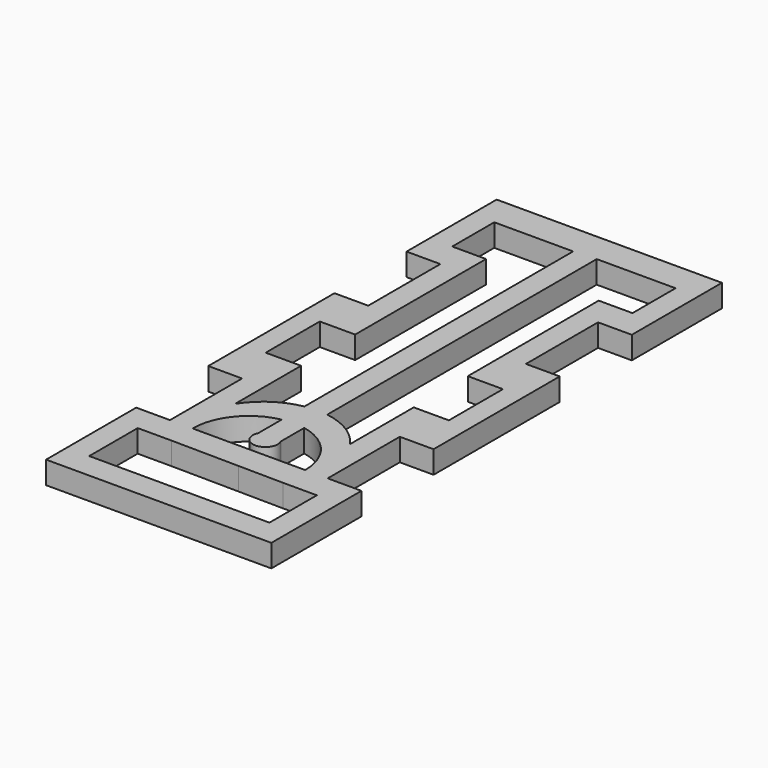
from build123d import *

# Parameters (mm, degrees)
F1_DEPTH = 5.08


with BuildPart() as f1:
    # F0 (on Top) → F1 (new body)
    with BuildSketch(Plane.XY):
        Polygon((-4.270472, 55.757098), (-55.070472, 55.757098), (-55.070472, 30.357098), (-47.450472, 30.357098), (-47.450472, 10.037098), (-55.070472, 10.037098), (-55.070472, -25.522902), (-47.450472, -25.522902), (-47.450472, -45.842902), (-55.070472, -45.842902), (-55.070472, -71.242902), (-4.270472, -71.242902), (-4.270472, -45.842902), (-11.890472, -45.842902), (-11.890472, -25.522902), (-4.270472, -25.522902), (-4.270472, 10.037098), (-11.890472, 10.037098), (-11.890472, 30.357098), (-4.270472, 30.357098), align=None)
        Polygon((-49.990472, -51.771179), (-42.370472, -51.771179), (-32.210472, -51.892635), (-27.130472, -51.953363), (-16.970472, -52.07482), (-9.350472, -52.07482), (-9.350472, -65.435126), (-27.130472, -65.435126), (-32.210472, -65.435126), (-49.990472, -65.435126), align=None, mode=Mode.SUBTRACT)
        with BuildLine():
            Line((-16.970472, -45.842902), (-42.370472, -45.842902))
            ThreePointArc((-42.370472, -45.842902), (-39.50785, -37.810717), (-32.210472, -33.399494))
            Line((-32.210472, -33.399494), (-32.210472, -40.014148))
            ThreePointArc((-32.210472, -40.014148), (-29.670472, -44.004216), (-27.130472, -40.014148))
            Line((-27.130472, -40.014148), (-27.130472, -33.399494))
            ThreePointArc((-27.130472, -33.399494), (-19.833094, -37.810717), (-16.970472, -45.842902))
        make_face(mode=Mode.SUBTRACT)
        with BuildLine():
            Line((-49.990472, 48.734743), (-42.370472, 48.734743))
            Line((-42.370472, 48.734743), (-32.210472, 48.734743))
            Line((-32.210472, 48.734743), (-32.210472, -26.999166))
            ThreePointArc((-32.210472, -26.999166), (-37.999229, -29.353544), (-42.370472, -33.81953))
            Line((-42.370472, -33.81953), (-42.370472, -15.24))
            Line((-42.370472, -15.24), (-50.352603, -15.24))
            Line((-50.352603, -15.24), (-50.352603, 0))
            Line((-50.352603, 0), (-42.370472, 0))
            Line((-42.370472, 0), (-42.370472, 36.892656))
            Line((-42.370472, 36.892656), (-49.990472, 36.892656))
            Line((-49.990472, 36.892656), (-49.990472, 48.734743))
        make_face(mode=Mode.SUBTRACT)
        with BuildLine():
            Line((-27.130472, -26.922115), (-27.130472, 49.038388))
            Line((-27.130472, 49.038388), (-16.970472, 49.038388))
            Line((-16.970472, 49.038388), (-9.350472, 49.038388))
            Line((-9.350472, 49.038388), (-9.350472, 36.892656))
            Line((-9.350472, 36.892656), (-16.970472, 36.892656))
            Line((-16.970472, 36.892656), (-16.970472, 0))
            Line((-16.970472, 0), (-9.046003, 0))
            Line((-9.046003, 0), (-9.046003, -15.24))
            Line((-9.046003, -15.24), (-16.970472, -15.24))
            Line((-16.970472, -15.24), (-16.970472, -33.142902))
            ThreePointArc((-16.970472, -33.142902), (-21.422603, -29.007051), (-27.130472, -26.922115))
        make_face(mode=Mode.SUBTRACT)
    extrude(amount=F1_DEPTH)


solid = f1.part
